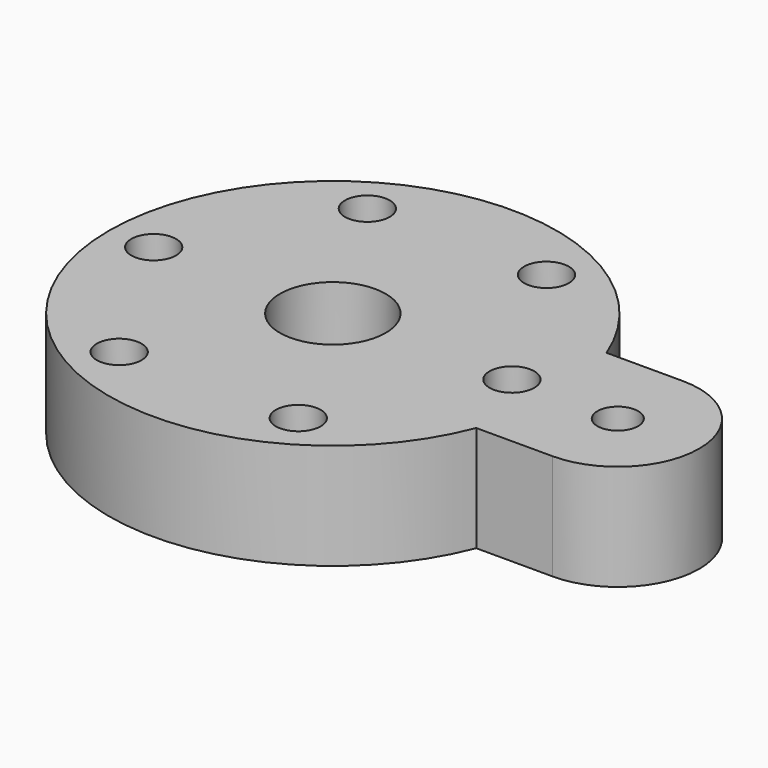
from build123d import *

# Parameters (mm, degrees)
SKETCH_R              = 6.5
SKETCH_R_2            = 2.5
PAD_DEPTH             = 13
SKETCH001_R           = 1.5
POCKET_DEPTH          = 20
POLARPATTERN_COUNT    = 6
SKETCH002_R           = 2.75
POCKET001_DEPTH       = 3
POLARPATTERN001_COUNT = 6
POCKET002_DEPTH       = 5


with BuildPart() as part:
    # Sketch → Pad (new body)
    with BuildSketch(Plane.XY):
        with BuildLine():
            ThreePointArc((25.617377, 10), (-27.5, 0), (25.617377, -10))
            Line((25.617377, -10), (35, -10))
            ThreePointArc((35, -10), (45, 0), (35, 10))
            Line((25.617377, 10), (35, 10))
        make_face()
        Circle(SKETCH_R, mode=Mode.SUBTRACT)
        with Locations((35, 0)):
            Circle(SKETCH_R_2, mode=Mode.SUBTRACT)
    extrude(amount=PAD_DEPTH)

    # Sketch001 (on Face8 of Pad) → Pocket (cut)
    with BuildSketch(Plane.XY.offset(13)):
        with Locations((22, 0)):
            Circle(SKETCH001_R)
    pocket = extrude(amount=-POCKET_DEPTH, mode=Mode.SUBTRACT)

    # PolarPattern: Pocket ×6 about axis
    polarpattern_axis = Axis((0, 0, 13), (0, 0, 1))
    for i in range(1, POLARPATTERN_COUNT):
        add(pocket.rotate(polarpattern_axis, i * 360 / POLARPATTERN_COUNT), mode=Mode.SUBTRACT)

    # Sketch002 (on Face5 of PolarPattern) → Pocket001 (cut)
    with BuildSketch(Plane.XY.offset(13)):
        with Locations((22, 0)):
            Circle(SKETCH002_R)
    pocket001 = extrude(amount=-POCKET001_DEPTH, mode=Mode.SUBTRACT)

    # PolarPattern001: Pocket001 ×6 about axis
    polarpattern001_axis = Axis((0, 0, 13), (0, 0, 1))
    for i in range(1, POLARPATTERN001_COUNT):
        add(pocket001.rotate(polarpattern001_axis, i * 360 / POLARPATTERN001_COUNT), mode=Mode.SUBTRACT)

    # Sketch003 (on Face4 of PolarPattern001) → Pocket002 (cut)
    with BuildSketch(Plane(origin=(0, 0, 0), x_dir=(1, 0, 0), z_dir=(0, 0, -1))):
        Polygon((39.503332, 0), (37.251666, 3.9), (32.748334, 3.9), (30.496668, 0), (32.748334, -3.9), (37.251666, -3.9), align=None)
    extrude(amount=-POCKET002_DEPTH, mode=Mode.SUBTRACT)


solid = part.part
